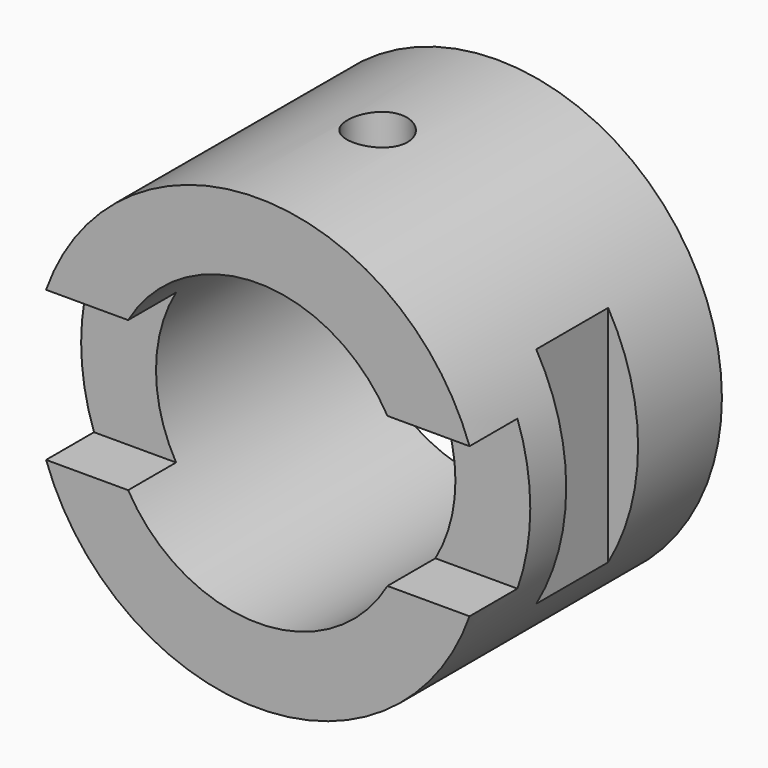
from build123d import *

# Parameters (mm, degrees)
F0_R     = 37.5
F0_R_2   = 25
F1_DEPTH = 25
F2_R     = 5
F3_DEPTH = 37.501
F2_W     = 5
F2_H     = 15
F4_DEPTH = 37.5
F2_W_2   = 75
F2_H_2   = 10
F5_DEPTH = 12.5


with BuildPart() as f1:
    # F0 (on Front) → F1 (new body, symmetric)
    with BuildSketch(Plane.XZ):
        Circle(F0_R)
        Circle(F0_R_2, mode=Mode.SUBTRACT)
    extrude(amount=F1_DEPTH, both=True)

    # F2 (on Top) → F3 (cut, through all)
    with BuildSketch(Plane.XY):
        Circle(F2_R)
    extrude(amount=F3_DEPTH, mode=Mode.SUBTRACT)

    # F2 (on Top) → F4 (cut, symmetric)
    with BuildSketch(Plane.XY):
        with Locations((-35, 0)):
            Rectangle(F2_W, F2_H)
        with Locations((35, 0)):
            Rectangle(F2_W, F2_H)
    extrude(amount=F4_DEPTH, both=True, mode=Mode.SUBTRACT)

    # F2 (on Top) → F5 (cut, symmetric)
    with BuildSketch(Plane.XY):
        with Locations((0, -20)):
            Rectangle(F2_W_2, F2_H_2)
    extrude(amount=F5_DEPTH, both=True, mode=Mode.SUBTRACT)


solid = f1.part
